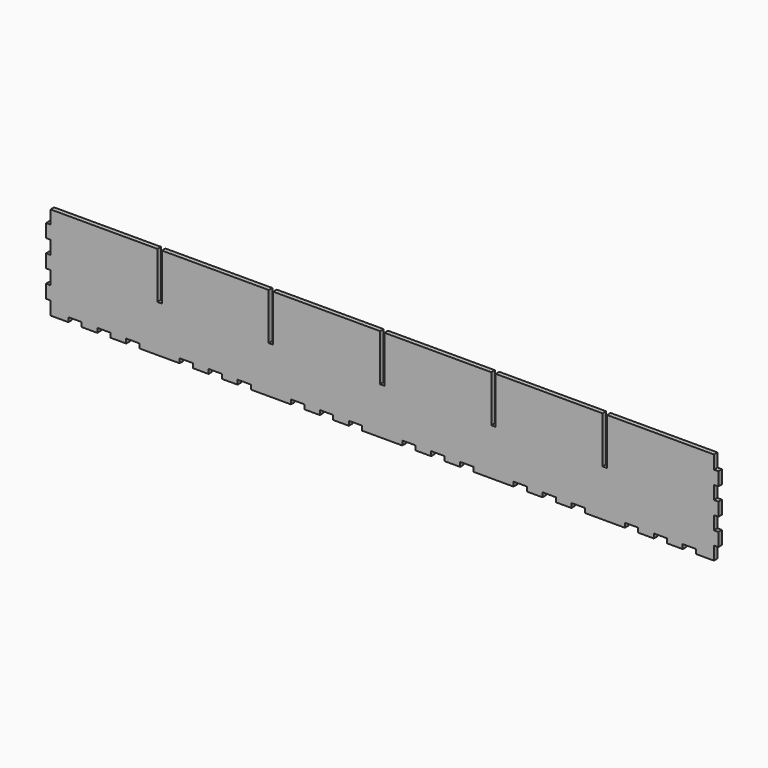
from build123d import *

# Parameters (mm, degrees)
F0_W     = 479.425
F0_H     = 66.675
F1_DEPTH = 3.175
F2_W     = 3.175
F2_H     = 9.525
F3_DEPTH = 3.176
F4_W     = 3.175
F4_H     = 33.3375
F5_DEPTH = 3.176
F6_W     = 9.525
F6_H     = 3.175
F7_DEPTH = 3.176


with BuildPart() as f1:
    # F0 (on Front) → F1 (new body)
    with BuildSketch(Plane.XZ):
        Rectangle(F0_W, F0_H)
    extrude(amount=F1_DEPTH)

    # F2 (on face) → F3 (cut, through all)
    with BuildSketch(Plane.XZ.offset(3.175)):
        with Locations((-238.125, -28.575)):
            Rectangle(F2_W, F2_H)
        with Locations((-238.125, -9.525)):
            Rectangle(F2_W, F2_H)
        with Locations((-238.125, 9.525)):
            Rectangle(F2_W, F2_H)
        with Locations((-238.125, 28.575)):
            Rectangle(F2_W, F2_H)
        with Locations((238.125, -28.575)):
            Rectangle(F2_W, F2_H)
        with Locations((238.125, -9.525)):
            Rectangle(F2_W, F2_H)
        with Locations((238.125, 9.525)):
            Rectangle(F2_W, F2_H)
        with Locations((238.125, 28.575)):
            Rectangle(F2_W, F2_H)
    extrude(amount=-F3_DEPTH, mode=Mode.SUBTRACT)

    # F4 (on face) → F5 (cut, through all)
    with BuildSketch(Plane.XZ.offset(3.175)):
        with Locations((-158.75, 16.66875)):
            Rectangle(F4_W, F4_H)
        with Locations((-79.375, 16.66875)):
            Rectangle(F4_W, F4_H)
        with Locations((0, 16.66875)):
            Rectangle(F4_W, F4_H)
        with Locations((79.375, 16.66875)):
            Rectangle(F4_W, F4_H)
        with Locations((158.75, 16.66875)):
            Rectangle(F4_W, F4_H)
    extrude(amount=-F5_DEPTH, mode=Mode.SUBTRACT)

    # F6 (on face) → F7 (cut, through all)
    with BuildSketch(Plane.XZ.offset(3.175)):
        with Locations((-219.075, -31.75)):
            Rectangle(F6_W, F6_H)
        with Locations((-198.4375, -31.75)):
            Rectangle(F6_W, F6_H)
        with Locations((-177.8, -31.75)):
            Rectangle(F6_W, F6_H)
        with Locations((-139.7, -31.75)):
            Rectangle(F6_W, F6_H)
        with Locations((-119.0625, -31.75)):
            Rectangle(F6_W, F6_H)
        with Locations((-98.425, -31.75)):
            Rectangle(F6_W, F6_H)
        with Locations((-60.325, -31.75)):
            Rectangle(F6_W, F6_H)
        with Locations((-39.6875, -31.75)):
            Rectangle(F6_W, F6_H)
        with Locations((-19.05, -31.75)):
            Rectangle(F6_W, F6_H)
        with Locations((19.05, -31.75)):
            Rectangle(F6_W, F6_H)
        with Locations((39.6875, -31.75)):
            Rectangle(F6_W, F6_H)
        with Locations((60.325, -31.75)):
            Rectangle(F6_W, F6_H)
        with Locations((98.425, -31.75)):
            Rectangle(F6_W, F6_H)
        with Locations((119.0625, -31.75)):
            Rectangle(F6_W, F6_H)
        with Locations((139.7, -31.75)):
            Rectangle(F6_W, F6_H)
        with Locations((177.8, -31.75)):
            Rectangle(F6_W, F6_H)
        with Locations((198.4375, -31.75)):
            Rectangle(F6_W, F6_H)
        with Locations((219.075, -31.75)):
            Rectangle(F6_W, F6_H)
    extrude(amount=-F7_DEPTH, mode=Mode.SUBTRACT)


solid = f1.part
